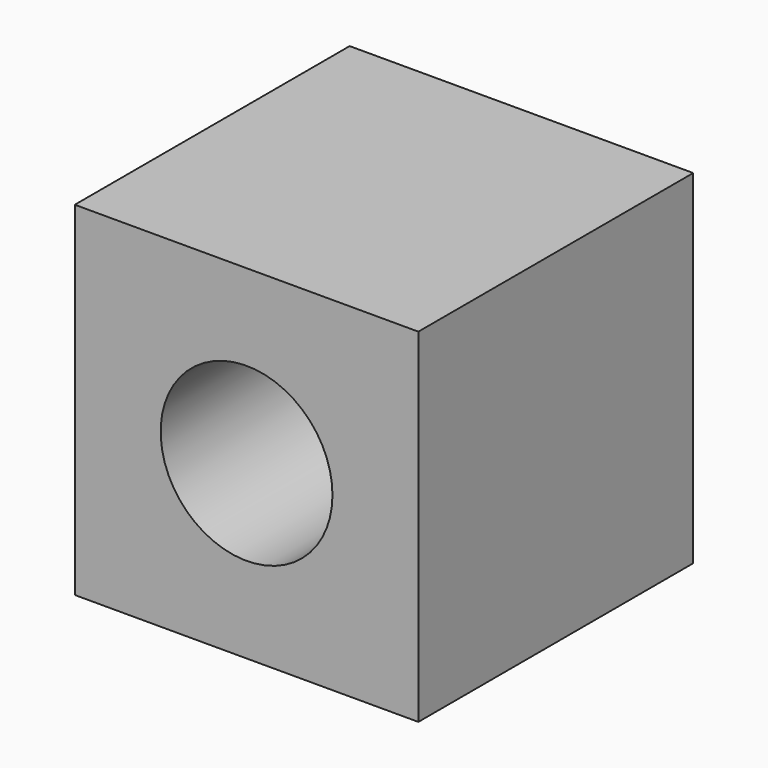
from build123d import *

# Parameters (mm, degrees)
F0_W     = 10
F0_H     = 10
F1_DEPTH = 5
F2_R     = 2.5
F3_DEPTH = 10.001


with BuildPart() as f1:
    # F0 (on Front) → F1 (new body, symmetric)
    with BuildSketch(Plane.XZ):
        Rectangle(F0_W, F0_H)
    extrude(amount=F1_DEPTH, both=True)

    # F2 (on face) → F3 (cut, through all)
    with BuildSketch(Plane.XZ.offset(5)):
        Circle(F2_R)
    extrude(amount=-F3_DEPTH, mode=Mode.SUBTRACT)


solid = f1.part
